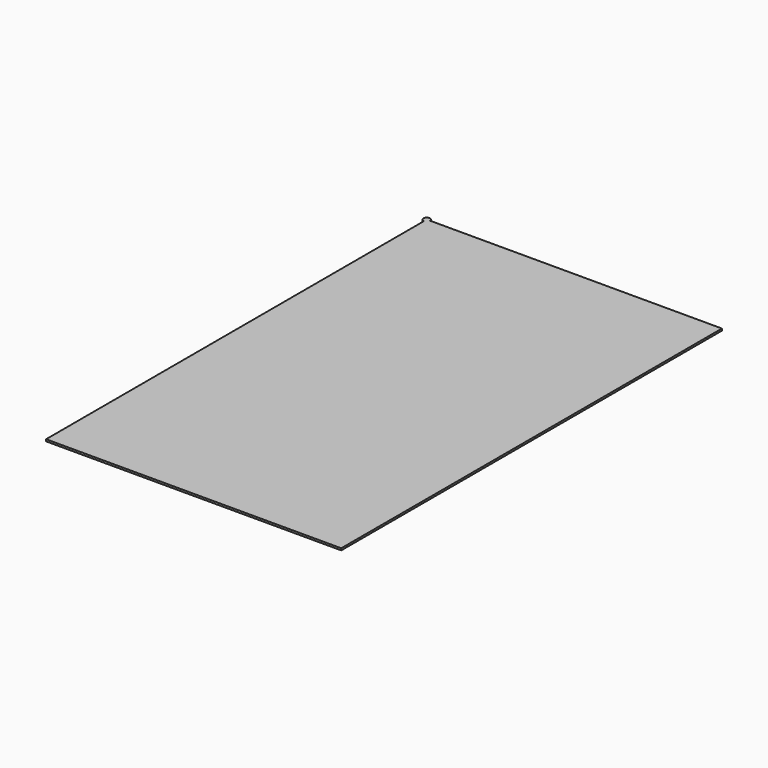
from build123d import *

# Parameters (mm, degrees)
CYLINDER_R     = 0.5
CYLINDER_DEPTH = 0.3
BOX003_W       = 45.9
BOX003_H       = 74
BOX003_DEPTH   = 0.3


with BuildPart() as cylinder:
    # Cylinder → Cylinder (new body)
    with BuildSketch(Plane(origin=(1, 6.5, 11.9), x_dir=(1, 0, 0), z_dir=(0, 0, 1))):
        Circle(CYLINDER_R)
    extrude(amount=CYLINDER_DEPTH)


with BuildPart() as displayframe001:
    # Box003 → Box003 (new body)
    with BuildSketch(Plane(origin=(1, -67.5, 11.9), x_dir=(1, 0, 0), z_dir=(0, 0, 1))):
        with Locations((22.95, 37)):
            Rectangle(BOX003_W, BOX003_H)
    extrude(amount=BOX003_DEPTH)

    # Fusion: union Cylinder
    add(cylinder.part)


solid = displayframe001.part
